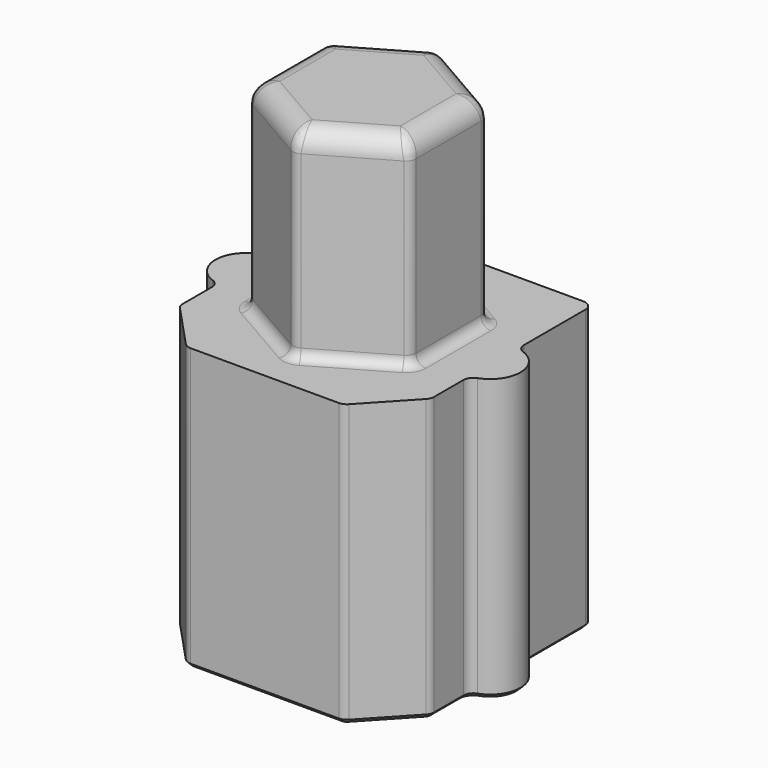
from build123d import *

# Parameters (mm, degrees)
PAD013_DEPTH    = 7
PAD014_DEPTH    = 5
FILLET018_R     = 0.25
FILLET019_R     = 0.5
CHAMFER001_SIZE = 0.1


with BuildPart() as part:
    # Sketch035 → Pad013 (new body)
    with BuildSketch(Plane.XY):
        with BuildLine():
            Line((3.125, 3.095168), (-3.125, 3.095168))
            Line((-3.125, 3.095168), (-3.125, 0.745168))
            ThreePointArc((-3.125, 0.745168), (-3.79, 0), (-3.125, -0.745168))
            Line((-3.125, -1.945168), (-3.125, -0.745168))
            Line((-1.95, -3.204832), (-3.125, -1.945168))
            Line((1.95, -3.204832), (-1.95, -3.204832))
            Line((3.125, -1.945168), (1.95, -3.204832))
            Line((3.125, -0.745168), (3.125, -1.945168))
            ThreePointArc((3.125, -0.745168), (3.79, 0), (3.125, 0.745168))
            Line((3.125, 3.095168), (3.125, 0.745168))
        make_face()
    extrude(amount=PAD013_DEPTH)

    # Sketch036 (on Face12 of Pad013) → Pad014 (join)
    with BuildSketch(Plane.XY.offset(7)):
        Polygon((2, -1.154701), (2, 1.154701), (0, 2.309401), (-2, 1.154701), (-2, -1.154701), (0, -2.309401), align=None)
    extrude(amount=PAD014_DEPTH)

    # Fillet018
    fillet018_edges = [part.edges().sort_by_distance(p)[0] for p in [
        (1.95, -3.204832, 3.5),
        (3.125, -1.945168, 3.5),
        (-1.95, -3.204832, 3.5),
        (-3.125, -1.945168, 3.5),
        (-3.125, -0.745168, 3.5),
        (-3.125, 0.745168, 3.5),
        (-3.125, 3.095168, 3.5),
        (3.125, 3.095168, 3.5),
        (3.125, 0.745168, 3.5),
        (3.125, -0.745168, 3.5),
        (2, -1.154701, 9.5),
        (2, 1.154701, 9.5),
        (0, -2.309401, 9.5),
        (-2, -1.154701, 9.5),
        (-2, 1.154701, 9.5),
        (0, 2.309401, 9.5),
        (1, -1.732051, 7),
        (-1, -1.732051, 7),
        (-2, 0, 7),
        (-1, 1.732051, 7),
        (1, 1.732051, 7),
        (2, 0, 7),
    ]]
    fillet(fillet018_edges, radius=FILLET018_R)

    # Fillet019
    fillet019_edges = [part.edges().sort_by_distance(p)[0] for p in [
        (-1, -1.732051, 12),
        (0, -2.270726, 12),
        (1, -1.732051, 12),
        (1.966506, -1.135363, 12),
        (2, 0, 12),
        (1.966506, 1.135363, 12),
        (1, 1.732051, 12),
        (0, 2.270726, 12),
        (-1, 1.732051, 12),
        (-1.966506, 1.135363, 12),
        (-2, 0, 12),
        (-1.966506, -1.135363, 12),
    ]]
    fillet(fillet019_edges, radius=FILLET019_R)

    # Chamfer001
    chamfer001_edges = [part.edges().sort_by_distance(p)[0] for p in [
        (-3.125, 1.893693, 0),
        (-3.051777, 3.021944, 0),
        (0, 3.095168, 0),
        (3.051777, 3.021944, 0),
        (3.125, 1.893693, 0),
        (3.170748, 0.798061, 0),
        (3.79, 0, 0),
        (3.170748, -0.798061, 0),
        (3.125, -1.394444, 0),
        (3.107598, -1.938311, 0),
        (2.540973, -2.571277, 0),
        (1.940989, -3.184105, 0),
        (0, -3.204832, 0),
        (-1.940989, -3.184105, 0),
        (-2.540973, -2.571277, 0),
        (-3.107598, -1.938311, 0),
        (-3.125, -1.394444, 0),
        (-3.170748, -0.798061, 0),
        (-3.79, 0, 0),
        (-3.170748, 0.798061, 0),
    ]]
    chamfer(chamfer001_edges, length=CHAMFER001_SIZE)


solid = part.part
